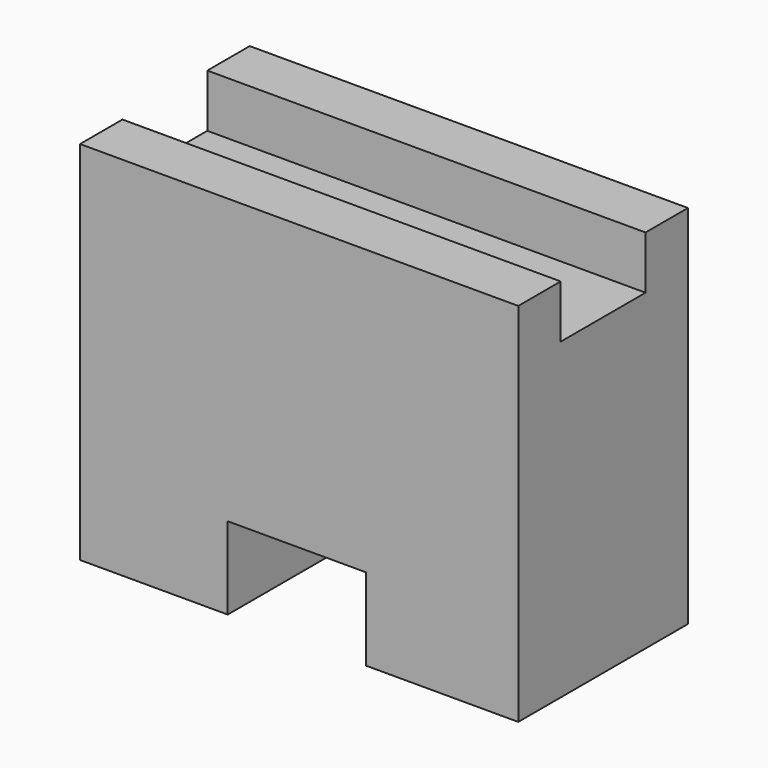
from build123d import *

# Parameters (mm, degrees)
F1_DEPTH = 25.4
F2_W     = 52.48428
F2_H     = 6.35
F3_DEPTH = 6.35
F4_W     = 52.48428
F4_H     = 6.35
F5_DEPTH = 6.35


with BuildPart() as f1:
    # F0 (on Front) → F1 (new body)
    with BuildSketch(Plane.XZ):
        Polygon((4.563851, 37.509143), (4.563851, 0), (22.248767, 0), (22.248767, 9.840802), (38.792729, 9.840802), (38.792729, 0), (57.048131, 0), (57.048131, 37.509143), align=None)
    extrude(amount=F1_DEPTH)

    # F2 (on face) → F3 (join)
    with BuildSketch(Plane.XY.offset(37.509143)):
        with Locations((30.805991, -3.175)):
            Rectangle(F2_W, F2_H)
    extrude(amount=F3_DEPTH)

    # F4 (on face) → F5 (join)
    with BuildSketch(Plane.XY.offset(37.509143)):
        with Locations((30.805991, -22.225)):
            Rectangle(F4_W, F4_H)
    extrude(amount=F5_DEPTH)


solid = f1.part
